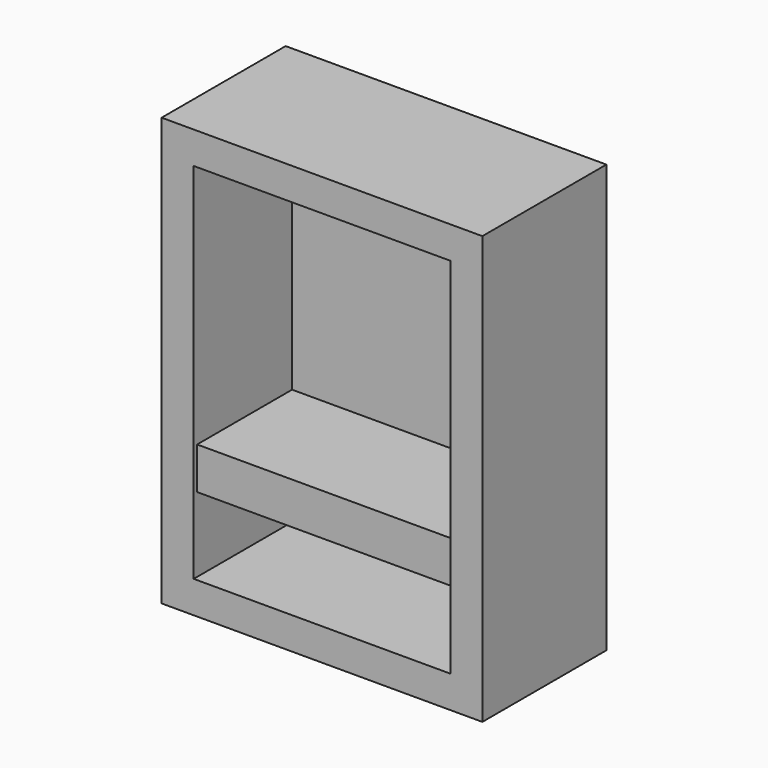
from build123d import *

# Parameters (mm, degrees)
F0_W     = 76.2
F0_H     = 101.6
F1_DEPTH = 36.83
F2_T     = -7.62
F4_DEPTH = 25.4
F5_DEPTH = 35.814


with BuildPart() as f1:
    # F0 (on Front) → F1 (new body)
    with BuildSketch(Plane.XZ):
        Rectangle(F0_W, F0_H)
    extrude(amount=F1_DEPTH)

    # F2
    f2_openings = [f1.faces().sort_by_distance(p)[0] for p in [
        (0, -36.83, 0),
    ]]
    offset(amount=F2_T, openings=f2_openings)


with BuildPart() as f4:
    # F3 (on Front) → F4 (new body)
    with BuildSketch(Plane.XZ):
        Polygon((30.685341, -15.485806), (-30.602904, -15.485806), (-33.085197, -15.485806), (-33.085197, -25.44005), (30.685341, -25.44005), align=None)
    extrude(amount=F4_DEPTH)


with BuildPart() as f5:
    # F3 (on Front) → F5 (new body)
    with BuildSketch(Plane.XZ):
        Polygon((30.685341, -15.485806), (-30.602904, -15.485806), (-33.085197, -15.485806), (-33.085197, -25.44005), (30.685341, -25.44005), align=None)
    extrude(amount=F5_DEPTH)


solid = Compound([f1.part, f4.part, f5.part])
